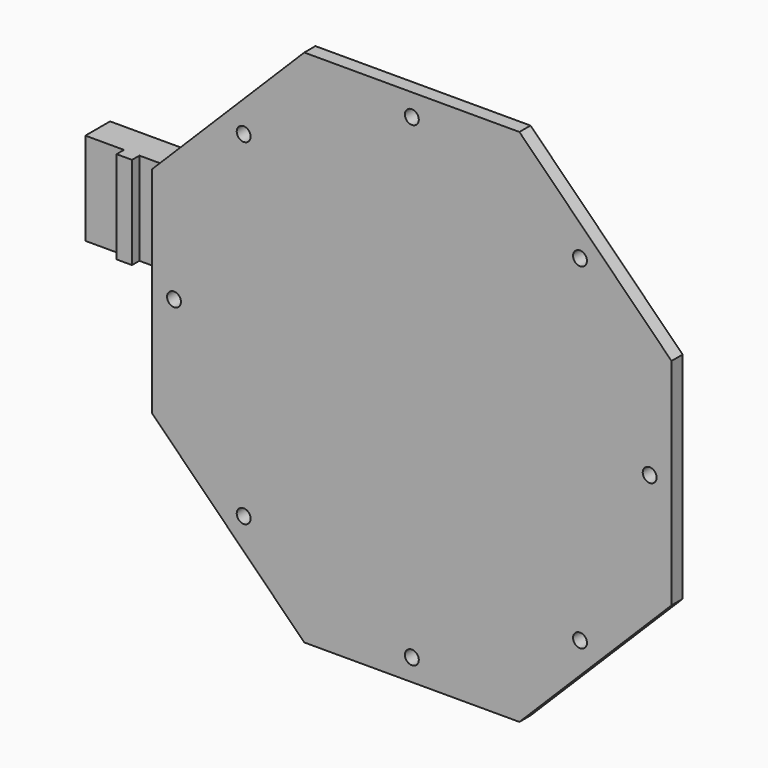
from build123d import *

# Parameters (mm, degrees)
SKETCH006_R          = 2.25
EXTRUDE006_DEPTH     = 30
SKETCH005_R          = 20
SKETCH005_R_2        = 5.9
EXTRUDE005_DEPTH     = 12
SKETCH004_R          = 20
SKETCH004_R_2        = 5.9
EXTRUDE004_DEPTH     = 12
SKETCH003_R          = 20
SKETCH003_R_2        = 8
EXTRUDE003_DEPTH     = 21
SKETCH_R             = 20
SKETCH_R_2           = 8
EXTRUDE_DEPTH        = 21
SKETCH001_W          = 23.5
SKETCH001_H          = 19.5
SKETCH001_R          = 3.5
EXTRUDE001_DEPTH     = 36
SKETCH046_R          = 3.5
SKETCH046_R_2        = 1.7
SKETCH046_R_3        = 8
EXTRUDE011_DEPTH     = 10
SKETCH047_R          = 3.5
SKETCH047_R_2        = 2.75
EXTRUDE002_DEPTH     = 3
FUSION003_ROLL_ANGLE = -90
SKETCH014_R          = 4.5
EXTRUDE009_DEPTH     = 6
SKETCH015_R          = 4.5
EXTRUDE010_DEPTH     = 6
SKETCH013_R          = 3
EXTRUDE008_DEPTH     = 20
EXTRUDE007_DEPTH     = 15
SKETCH052_R          = 8
SKETCH052_R_2        = 4.25
EXTRUDE016_DEPTH     = 2
SKETCH053_R          = 5.95
SKETCH053_R_2        = 4.25
EXTRUDE017_DEPTH     = 1.5
CYLINDER001_R        = 16.25
CYLINDER001_DEPTH    = 10
SKETCH049_R          = 14
EXTRUDE013_DEPTH     = 6
SKETCH050_W          = 26
SKETCH050_H          = 28
SKETCH050_R          = 10
EXTRUDE014_DEPTH     = 6
CYLINDER002_R        = 2.25
CYLINDER002_DEPTH    = 10
ARRAY_COUNT          = 8
EXTRUDE018_DEPTH     = 4.5
CUT007_ROLL_ANGLE    = -90
CYLINDER_R           = 16.25
CYLINDER_DEPTH       = 10
SKETCH048_R          = 14
EXTRUDE012_DEPTH     = 6


with BuildPart() as extrude006:
    # Sketch006 (on Face3 of Cut001) → Extrude006 (new body)
    with BuildSketch(Plane.YZ.offset(11.75)):
        Circle(SKETCH006_R)
    extrude(amount=-EXTRUDE006_DEPTH)


with BuildPart() as extrude005:
    # Sketch005 → Extrude005 (new body)
    with BuildSketch(Plane.XY):
        Circle(SKETCH005_R)
        Circle(SKETCH005_R_2, mode=Mode.SUBTRACT)
    extrude(amount=-EXTRUDE005_DEPTH)


with BuildPart() as extrude005_1:
    # Extrude005 placement: moved
    add(extrude005.part.moved(Location((0, 0, -28))))


with BuildPart() as fusion001:
    # Sketch004 → Extrude004 (new body)
    with BuildSketch(Plane.XY):
        Circle(SKETCH004_R)
        Circle(SKETCH004_R_2, mode=Mode.SUBTRACT)
    extrude(amount=EXTRUDE004_DEPTH)


with BuildPart() as fusion001_1:
    # Extrude004 placement: moved
    add(fusion001.part.moved(Location((0, 0, 28))))

    # Fusion001: union Extrude005
    add(extrude005_1.part)


with BuildPart() as extrude003:
    # Sketch003 → Extrude003 (new body)
    with BuildSketch(Plane.XY):
        Circle(SKETCH003_R)
        Circle(SKETCH003_R_2, mode=Mode.SUBTRACT)
    extrude(amount=-EXTRUDE003_DEPTH)


with BuildPart() as extrude003_1:
    # Extrude003 placement: moved
    add(extrude003.part.moved(Location((0, 0, -15))))


with BuildPart() as fusion:
    # Sketch → Extrude (new body)
    with BuildSketch(Plane.XY):
        Circle(SKETCH_R)
        Circle(SKETCH_R_2, mode=Mode.SUBTRACT)
    extrude(amount=EXTRUDE_DEPTH)


with BuildPart() as fusion_1:
    # Extrude placement: moved
    add(fusion.part.moved(Location((0, 0, 15))))

    # Fusion: union Extrude003
    add(extrude003_1.part)


with BuildPart() as cut002:
    # Sketch001 → Extrude001 (new body, symmetric)
    with BuildSketch(Plane.XY):
        Rectangle(SKETCH001_W, SKETCH001_H)
        Circle(SKETCH001_R, mode=Mode.SUBTRACT)
    extrude(amount=EXTRUDE001_DEPTH, both=True)

    # Cut: cut Fusion
    add(fusion_1.part, mode=Mode.SUBTRACT)

    # Cut001: cut Fusion001
    add(fusion001_1.part, mode=Mode.SUBTRACT)

    # Cut002: cut Extrude006
    add(extrude006.part, mode=Mode.SUBTRACT)


with BuildPart() as extrude011:
    # Sketch046 → Extrude011 (new body, symmetric)
    with BuildSketch(Plane.XY):
        Circle(SKETCH046_R)
        with Locations((6.717514, 6.717514)):
            Circle(SKETCH046_R_2)
        with Locations((-6.717514, -6.717514)):
            Circle(SKETCH046_R_2)
        with Locations((5.656854, -5.656854)):
            Circle(SKETCH046_R_2)
        with Locations((-5.656854, 5.656854)):
            Circle(SKETCH046_R_2)
        with Locations((-20, 0)):
            Circle(SKETCH046_R_3)
    extrude(amount=EXTRUDE011_DEPTH, both=True)


with BuildPart() as fusion003:
    # Sketch047 → Extrude002 (new body)
    with BuildSketch(Plane.XY):
        Circle(SKETCH047_R)
        with Locations((6.717514, 6.717514)):
            Circle(SKETCH047_R_2)
        with Locations((-6.717514, -6.717514)):
            Circle(SKETCH047_R_2)
        with Locations((5.656854, -5.656854)):
            Circle(SKETCH047_R_2)
        with Locations((-5.656854, 5.656854)):
            Circle(SKETCH047_R_2)
    extrude(amount=EXTRUDE002_DEPTH)


with BuildPart() as fusion003_1:
    # Extrude002 placement: moved
    add(fusion003.part.moved(Location((0, 0, -10))))

    # Fusion003: union Extrude011
    add(extrude011.part)


with BuildPart() as fusion003_2:
    # Fusion003 roll: moved
    add(fusion003_1.part.rotate(Axis((0, 0, 0), (1, 0, 0)), FUSION003_ROLL_ANGLE))


with BuildPart() as fusion003_3:
    # Fusion003 placement: moved
    add(fusion003_2.part.moved(Location((60, 20, 0))))


with BuildPart() as extrude009:
    # Sketch014 → Extrude009 (new body)
    with BuildSketch(Plane.YZ):
        Circle(SKETCH014_R)
    extrude(amount=EXTRUDE009_DEPTH)


with BuildPart() as extrude009_1:
    # Extrude009 placement: moved
    add(extrude009.part.moved(Location((14, 0, 0))))


with BuildPart() as extrude010:
    # Sketch015 → Extrude010 (new body)
    with BuildSketch(Plane.YZ):
        Circle(SKETCH015_R)
    extrude(amount=-EXTRUDE010_DEPTH)


with BuildPart() as extrude010_1:
    # Extrude010 placement: moved
    add(extrude010.part.moved(Location((-14, 0, 0))))


with BuildPart() as fusion002:
    # Sketch013 → Extrude008 (new body, symmetric)
    with BuildSketch(Plane.YZ):
        Circle(SKETCH013_R)
    extrude(amount=EXTRUDE008_DEPTH, both=True)

    # Fusion002: union Extrude009, Extrude010
    add(extrude009_1.part)
    add(extrude010_1.part)


with BuildPart() as cut004:
    # Sketch007 → Extrude007 (new body, symmetric)
    with BuildSketch(Plane.XY):
        Polygon((-19, -17), (-19, 10), (-55, 10), (-55, 7), (-60, 7), (-60, 10), (-72.5, 10), (-72.5, 20), (72.5, 20), (72.5, 10), (19, 10), (19, -18), (12, -18), (12, 10), (-12, 10), (-12, -17), align=None)
    extrude(amount=EXTRUDE007_DEPTH, both=True)

    # Cut003: cut Fusion002
    add(fusion002.part, mode=Mode.SUBTRACT)

    # Cut004: cut Fusion003
    add(fusion003_3.part, mode=Mode.SUBTRACT)


with BuildPart() as extrude016:
    # Sketch052 → Extrude016 (new body)
    with BuildSketch(Plane.XY):
        Circle(SKETCH052_R)
        Circle(SKETCH052_R_2, mode=Mode.SUBTRACT)
    extrude(amount=EXTRUDE016_DEPTH)


with BuildPart() as fusion006:
    # Sketch053 → Extrude017 (new body)
    with BuildSketch(Plane.XY):
        Circle(SKETCH053_R)
        Circle(SKETCH053_R_2, mode=Mode.SUBTRACT)
    extrude(amount=EXTRUDE017_DEPTH)


with BuildPart() as fusion006_1:
    # Extrude017 placement: moved
    add(fusion006.part.moved(Location((0, 0, 2))))

    # Fusion006: union Extrude016
    add(extrude016.part)


with BuildPart() as cylinder001:
    # Cylinder001 → Cylinder001 (new body)
    with BuildSketch(Plane.XY.offset(-4)):
        Circle(CYLINDER001_R)
    extrude(amount=CYLINDER001_DEPTH)


with BuildPart() as cut006:
    # Sketch049 → Extrude013 (new body, symmetric)
    with BuildSketch(Plane.XY):
        with BuildLine():
            ThreePointArc((20, 0), (0, 20), (-20, 0))
            Line((-20, 0), (-20, -23.5))
            Line((-20, -23.5), (20, -23.5))
            Line((20, -23.5), (20, 0))
        make_face()
        Circle(SKETCH049_R, mode=Mode.SUBTRACT)
    extrude(amount=EXTRUDE013_DEPTH, both=True)

    # Cut006: cut Cylinder001
    add(cylinder001.part, mode=Mode.SUBTRACT)


with BuildPart() as cut006_1:
    # Cut006 placement: moved
    add(cut006.part.moved(Location((0, 0, 32))))


with BuildPart() as extrude014:
    # Sketch050 → Extrude014 (new body, symmetric)
    with BuildSketch(Plane.XY):
        with Locations((0, -1)):
            Rectangle(SKETCH050_W, SKETCH050_H)
        Circle(SKETCH050_R, mode=Mode.SUBTRACT)
    extrude(amount=EXTRUDE014_DEPTH, both=True)


with BuildPart() as extrude014_1:
    # Extrude014 placement: moved
    add(extrude014.part.moved(Location((0, 0, 32))))


with BuildPart() as clone_of_extrude014:
    # Clone base: copy of Extrude014
    add(extrude014_1.part)


with BuildPart() as clone_of_extrude014_1:
    # Clone placement: moved
    add(clone_of_extrude014.part.moved(Location((0, 0, -64))))


with BuildPart() as fusion004:
    # Fusion004 base: copy of Extrude014
    add(extrude014_1.part)

    # Fusion004: union Clone of Extrude014
    add(clone_of_extrude014_1.part)


with BuildPart() as fusion004_1:
    # Fusion004 placement: moved
    add(fusion004.part.moved(Location((31, -8.5, 0))))


with BuildPart() as array:
    # Cylinder002 → Cylinder002 (new body)
    with BuildSketch(Plane(origin=(-77, 0, 0), x_dir=(1, 0, 0), z_dir=(0, 0, 1))):
        Circle(CYLINDER002_R)
    extrude(amount=CYLINDER002_DEPTH)

    # Array: Array ×8 about axis
    array_axis = Axis((0, 0, 0), (0, 0, 1))


with BuildPart() as array_1:
    add(array.part)
    for i in range(1, ARRAY_COUNT):
        add(array.part.rotate(array_axis, i * 360 / ARRAY_COUNT))


with BuildPart() as cut007:
    # Sketch054 → Extrude018 (new body)
    with BuildSketch(Plane.XY):
        Polygon((84.073037, -34.824192), (84.073037, 34.824192), (34.824192, 84.073037), (-34.824192, 84.073037), (-84.073037, 34.824192), (-84.073037, -34.824192), (-34.824192, -84.073037), (34.824192, -84.073037), align=None)
    extrude(amount=EXTRUDE018_DEPTH)

    # Cut007: cut Array
    add(array_1.part, mode=Mode.SUBTRACT)


with BuildPart() as cut007_1:
    # Cut007 roll: moved
    add(cut007.part.rotate(Axis((0, 0, 0), (1, 0, 0)), CUT007_ROLL_ANGLE))


with BuildPart() as cut007_2:
    # Cut007 placement: moved
    add(cut007_1.part.moved(Location((60, -23.5, 0))))


with BuildPart() as cylinder:
    # Cylinder → Cylinder (new body)
    with BuildSketch(Plane.XY.offset(-6)):
        Circle(CYLINDER_R)
    extrude(amount=CYLINDER_DEPTH)


with BuildPart() as fusion007:
    # Sketch048 → Extrude012 (new body, symmetric)
    with BuildSketch(Plane.XY):
        with BuildLine():
            ThreePointArc((20, 0), (0, 20), (-20, 0))
            Line((-20, 0), (-20, -23.5))
            Line((-20, -23.5), (20, -23.5))
            Line((20, -23.5), (20, 0))
        make_face()
        Circle(SKETCH048_R, mode=Mode.SUBTRACT)
    extrude(amount=EXTRUDE012_DEPTH, both=True)

    # Cut005: cut Cylinder
    add(cylinder.part, mode=Mode.SUBTRACT)


with BuildPart() as fusion007_1:
    # Cut005 placement: moved
    add(fusion007.part.moved(Location((0, 0, -32))))

    # Fusion007: union Cut006, Fusion004, Cut007
    add(cut006_1.part)
    add(fusion004_1.part)
    add(cut007_2.part)


solid = Compound([cut002.part, cut004.part, fusion006_1.part, fusion007_1.part])
